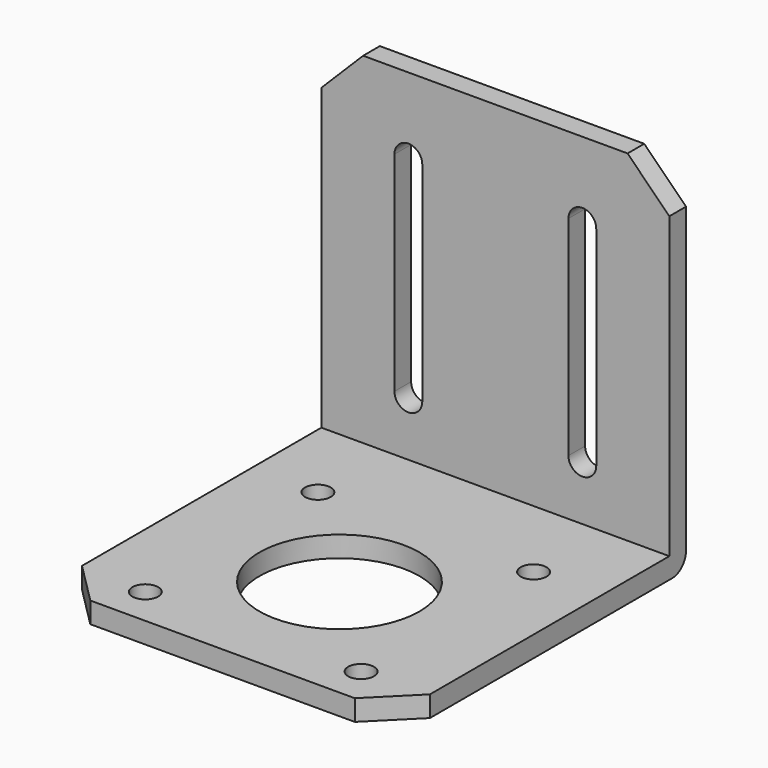
from build123d import *

# Parameters (mm, degrees)
F1_DEPTH = 50
F2_R     = 11.5
F2_R_2   = 1.85
F3_DEPTH = 3
F4_SIZE  = 6
F6_DEPTH = 3


with BuildPart() as f1:
    # F0 (on Right) → F1 (new body)
    with BuildSketch(Plane.YZ):
        with BuildLine():
            Line((-52, 3), (-52, 0))
            Line((-52, 0), (-2.5, 0))
            ThreePointArc((-2.5, 0), (-0.732233, 0.732233), (0, 2.5))
            Line((0, 2.5), (0, 52))
            Line((0, 52), (-3, 52))
            Line((-3, 52), (-3, 3))
            Line((-3, 3), (-52, 3))
        make_face()
    extrude(amount=-F1_DEPTH)

    # F2 (on Top) → F3 (cut)
    with BuildSketch(Plane.XY):
        with Locations((-25, -31)):
            Circle(F2_R)
        with Locations((-9.5, -46.5)):
            Circle(F2_R_2)
        with Locations((-9.5, -15.5)):
            Circle(F2_R_2)
        with Locations((-40.5, -46.5)):
            Circle(F2_R_2)
        with Locations((-40.5, -15.5)):
            Circle(F2_R_2)
    extrude(amount=F3_DEPTH, mode=Mode.SUBTRACT)

    # F4
    f4_edges = [f1.edges().sort_by_distance(p)[0] for p in [
        (0, -52, 1.5),
        (-50, -52, 1.5),
        (0, -1.5, 52),
        (-50, -1.5, 52),
    ]]
    chamfer(f4_edges, length=F4_SIZE)

    # F5 (on face) → F6 (cut)
    with BuildSketch(Plane(origin=(0, 0, 0), x_dir=(-1, 0, 0), z_dir=(0, 1, 0))):
        with BuildLine():
            Line((39.5, 11), (39.5, 41))
            ThreePointArc((39.5, 41), (37.5, 43), (35.5, 41))
            Line((35.5, 41), (35.5, 11))
            ThreePointArc((35.5, 11), (37.5, 9), (39.5, 11))
        make_face()
        with BuildLine():
            ThreePointArc((14.5, 41), (12.5, 43), (10.5, 41))
            Line((10.5, 41), (10.5, 11))
            ThreePointArc((10.5, 11), (12.5, 9), (14.5, 11))
            Line((14.5, 11), (14.5, 41))
        make_face()
    extrude(amount=-F6_DEPTH, mode=Mode.SUBTRACT)


solid = f1.part
